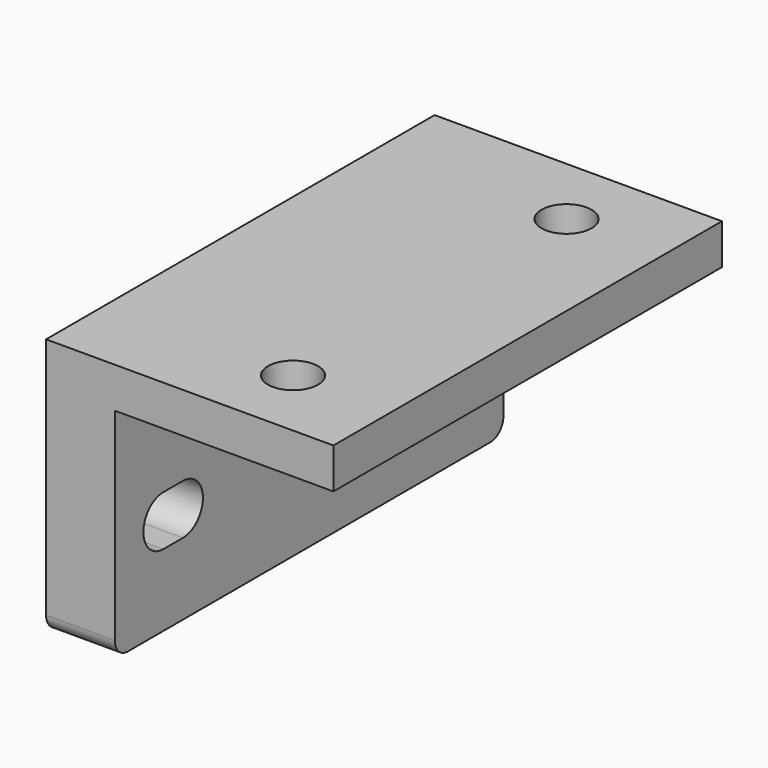
from build123d import *

# Parameters (mm, degrees)
PAD_DEPTH         = 60
SKETCH001_R       = 3.1
POCKET_DEPTH      = 27.001
POCKET_DEPTH_BACK = -5.001
POCKET001_DEPTH   = 8.501
FILLET_R          = 2


with BuildPart() as part:
    # Sketch → Pad (new body)
    with BuildSketch(Plane.XZ):
        Polygon((-8.5, 5), (27, 5), (27, 0), (0, 0), (0, -27), (-8.5, -27), align=None)
    extrude(amount=PAD_DEPTH)

    # Sketch001 → Pocket (cut, two sides)
    with BuildSketch(Plane.XY) as pocket_sk:
        with Locations((14.811455, -51)):
            Circle(SKETCH001_R)
        with Locations((15, -9)):
            Circle(SKETCH001_R)
    extrude(amount=-POCKET_DEPTH, mode=Mode.SUBTRACT)
    extrude(pocket_sk.sketch, amount=-POCKET_DEPTH_BACK, mode=Mode.SUBTRACT)

    # Sketch002 → Pocket001 (cut, through all)
    with BuildSketch(Plane.YZ):
        with BuildLine():
            ThreePointArc((-52.5, -11.9), (-55.6, -15), (-52.5, -18.1))
            Line((-52.5, -18.1), (-49.5, -18.1))
            ThreePointArc((-49.5, -18.1), (-46.4, -15), (-49.5, -11.9))
            Line((-52.5, -11.9), (-49.5, -11.9))
        make_face()
        with BuildLine():
            ThreePointArc((-10.5, -11.9), (-13.6, -15), (-10.5, -18.1))
            Line((-10.5, -18.1), (-7.5, -18.1))
            ThreePointArc((-7.5, -18.1), (-4.4, -15), (-7.5, -11.9))
            Line((-10.5, -11.9), (-7.5, -11.9))
        make_face()
    extrude(amount=-POCKET001_DEPTH, mode=Mode.SUBTRACT)

    # Fillet
    fillet_edges = [part.edges().sort_by_distance(p)[0] for p in [
        (-4.25, -60, -27),
        (-4.25, 0, -27),
    ]]
    fillet(fillet_edges, radius=FILLET_R)


solid = part.part
